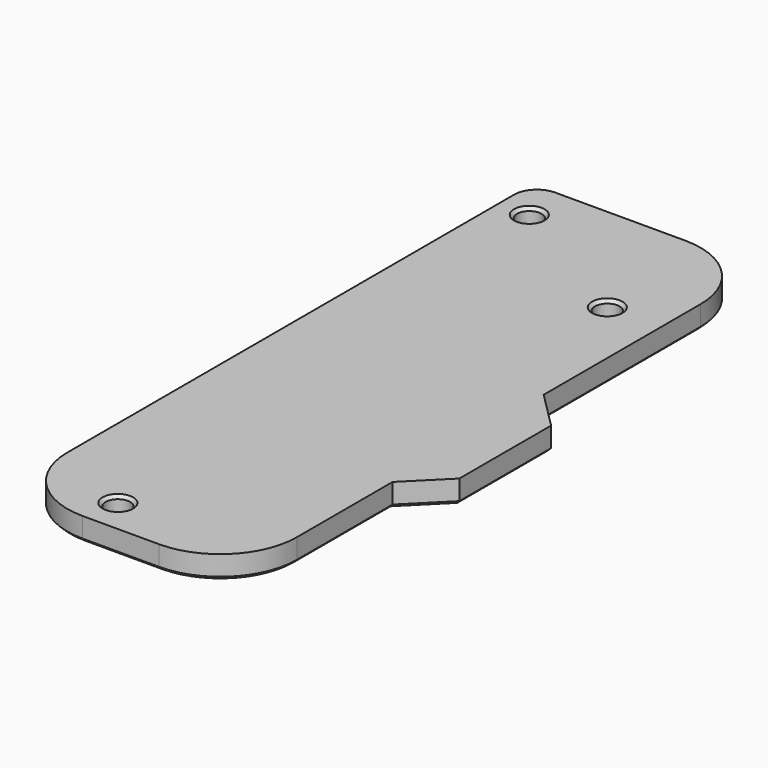
from build123d import *

# Parameters (mm, degrees)
BOX037_W          = 10
BOX037_H          = 24.7
BOX037_DEPTH      = 3
CHAMFER042_SIZE   = 4.85
CYLINDER020_R     = 1.6
CYLINDER020_DEPTH = 10
CYLINDER019_R     = 1.6
CYLINDER019_DEPTH = 10
CYLINDER021_R     = 1.6
CYLINDER021_DEPTH = 10
BOX035_W          = 30
BOX035_H          = 86
BOX035_DEPTH      = 3
FILLET007_R       = 10
FILLET009_R       = 10
FILLET011_R       = 3
CHAMFER045_SIZE   = 0.4
CHAMFER049_SIZE   = 0.4


with BuildPart() as chamfer042:
    # Box037 → Box037 (new body)
    with BuildSketch(Plane(origin=(-55.15, -14.85, 0), x_dir=(1, 0, 0), z_dir=(0, 0, 1))):
        with Locations((5, 12.35)):
            Rectangle(BOX037_W, BOX037_H)
    extrude(amount=BOX037_DEPTH)

    # Chamfer042
    chamfer042_edges = [chamfer042.edges().sort_by_distance(p)[0] for p in [
        (-45.15, -14.85, 1.5),
        (-45.15, 9.85, 1.5),
    ]]
    chamfer(chamfer042_edges, length=CHAMFER042_SIZE)


with BuildPart() as cylinder020:
    # Cylinder020 → Cylinder020 (new body)
    with BuildSketch(Plane(origin=(-76, 40, 0), x_dir=(1, 0, 0), z_dir=(0, 0, 1))):
        Circle(CYLINDER020_R)
    extrude(amount=CYLINDER020_DEPTH)


with BuildPart() as cylinder019:
    # Cylinder019 → Cylinder019 (new body)
    with BuildSketch(Plane(origin=(-57, 29, 0), x_dir=(1, 0, 0), z_dir=(0, 0, 1))):
        Circle(CYLINDER019_R)
    extrude(amount=CYLINDER019_DEPTH)


with BuildPart() as fusion002003013:
    # Cylinder021 → Cylinder021 (new body)
    with BuildSketch(Plane(origin=(-69, -36, 0), x_dir=(1, 0, 0), z_dir=(0, 0, 1))):
        Circle(CYLINDER021_R)
    extrude(amount=CYLINDER021_DEPTH)

    # Fusion002003013: union Cylinder020, Cylinder019
    add(cylinder020.part)
    add(cylinder019.part)


with BuildPart() as left_drill:
    # Box035 → Box035 (new body)
    with BuildSketch(Plane(origin=(-80, -40.5, 0), x_dir=(1, 0, 0), z_dir=(0, 0, 1))):
        with Locations((15, 43)):
            Rectangle(BOX035_W, BOX035_H)
    extrude(amount=BOX035_DEPTH)

    # Cut010: cut Fusion002003013
    add(fusion002003013.part, mode=Mode.SUBTRACT)

    # Fusion002003016: union Chamfer042
    add(chamfer042.part)

    # Fillet007
    fillet007_edges = [left_drill.edges().sort_by_distance(p)[0] for p in [
        (-50, -40.5, 1.5),
        (-50, 45.5, 1.5),
    ]]
    fillet(fillet007_edges, radius=FILLET007_R)

    # Fillet009
    fillet009_edges = [left_drill.edges().sort_by_distance(p)[0] for p in [
        (-80, -40.5, 1.5),
    ]]
    fillet(fillet009_edges, radius=FILLET009_R)

    # Fillet011
    fillet011_edges = [left_drill.edges().sort_by_distance(p)[0] for p in [
        (-80, 45.5, 1.5),
    ]]
    fillet(fillet011_edges, radius=FILLET011_R)

    # Chamfer045
    chamfer045_edges = [left_drill.edges().sort_by_distance(p)[0] for p in [
        (-80, 6, 0),
        (-79.12132, 44.62132, 0),
        (-68.5, 45.5, 0),
        (-52.928932, 42.571068, 0),
        (-50, 22.675, 0),
        (-47.575, 7.425, 0),
        (-45.15, -2.5, 0),
        (-47.575, -12.425, 0),
        (-50, -22.675, 0),
        (-52.928932, -37.571068, 0),
        (-65, -40.5, 0),
        (-77.071068, -37.571068, 0),
        (-58.6, 29, 0),
        (-70.6, -36, 0),
        (-77.6, 40, 0),
    ]]
    chamfer(chamfer045_edges, length=CHAMFER045_SIZE)

    # Chamfer049
    chamfer049_edges = [left_drill.edges().sort_by_distance(p)[0] for p in [
        (-58.6, 29, 3),
        (-70.6, -36, 3),
        (-77.6, 40, 3),
    ]]
    chamfer(chamfer049_edges, length=CHAMFER049_SIZE)


solid = left_drill.part
